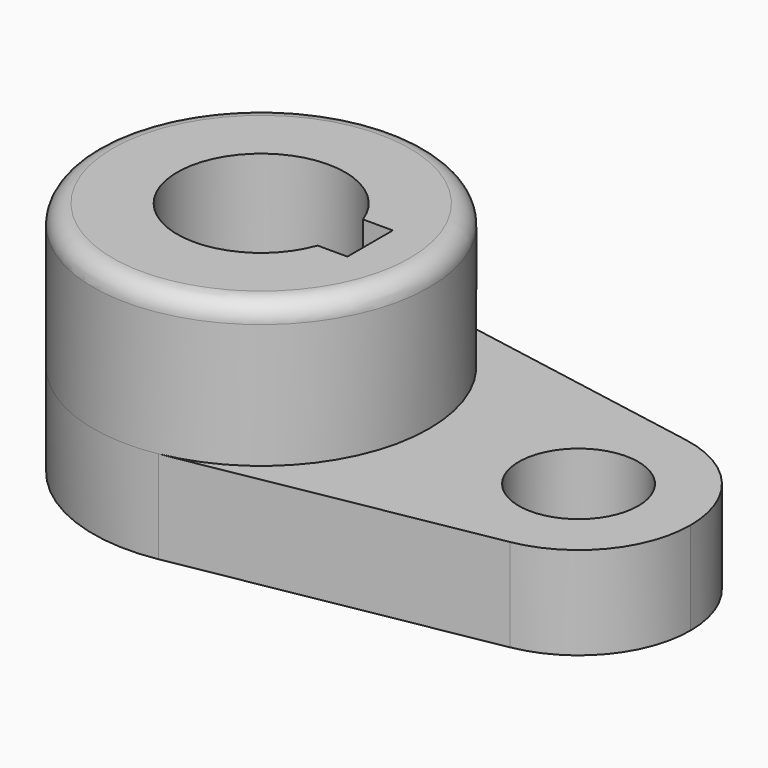
from build123d import *

# Parameters (mm, degrees)
F0_R     = 14.2875
F0_R_2   = 10.16
F1_DEPTH = 15.7734
F2_R     = 28.575
F2_R_2   = 14.2875
F3_DEPTH = 24.4602
F5_DEPTH = 40.2336
F6_R     = 3.302


with BuildPart() as f1:
    # F0 (on Top) → F1 (new body)
    with BuildSketch(Plane.XY):
        with BuildLine():
            ThreePointArc((5.042647, -28.126541), (21.916025, -18.336262), (28.575, 0))
            ThreePointArc((28.575, 0), (21.916025, 18.336262), (5.042647, 28.126541))
            ThreePointArc((5.042647, 28.126541), (-28.575, 0), (5.042647, -28.126541))
        make_face()
        Circle(F0_R, mode=Mode.SUBTRACT)
        with BuildLine():
            ThreePointArc((5.042647, 28.126541), (21.916025, 18.336262), (28.575, 0))
            ThreePointArc((28.575, 0), (21.916025, -18.336262), (5.042647, -28.126541))
            Line((5.042647, -28.126541), (57.336765, -18.751028))
            ThreePointArc((57.336765, -18.751028), (34.925, 0), (57.336765, 18.751028))
            Line((57.336765, 18.751028), (5.042647, 28.126541))
        make_face()
        with BuildLine():
            ThreePointArc((73.025, 0), (68.585683, 12.224174), (57.336765, 18.751028))
            ThreePointArc((57.336765, 18.751028), (34.925, 0), (57.336765, -18.751028))
            ThreePointArc((57.336765, -18.751028), (68.585683, -12.224174), (73.025, 0))
        make_face()
        with Locations((53.975, 0)):
            Circle(F0_R_2, mode=Mode.SUBTRACT)
    extrude(amount=F1_DEPTH)

    # F2 (on face) → F3 (join)
    with BuildSketch(Plane.XY.offset(15.7734)):
        Circle(F2_R)
        Circle(F2_R_2, mode=Mode.SUBTRACT)
    extrude(amount=F3_DEPTH)

    # F4 (on face) → F5 (cut, through all)
    with BuildSketch(Plane.XY.offset(40.2336)):
        with BuildLine():
            Line((18.5293, -4.826), (18.5293, 4.826))
            Line((18.5293, 4.826), (13.447765, 4.826))
            ThreePointArc((13.447765, 4.826), (14.076001, 2.449257), (14.2875, 0))
            ThreePointArc((14.2875, 0), (14.076001, -2.449257), (13.447765, -4.826))
            Line((13.447765, -4.826), (18.5293, -4.826))
        make_face()
    extrude(amount=-F5_DEPTH, mode=Mode.SUBTRACT)

    # F6
    f6_edges = [f1.edges().sort_by_distance(p)[0] for p in [
        (-28.575, 0, 40.2336),
    ]]
    fillet(f6_edges, radius=F6_R)


solid = f1.part
